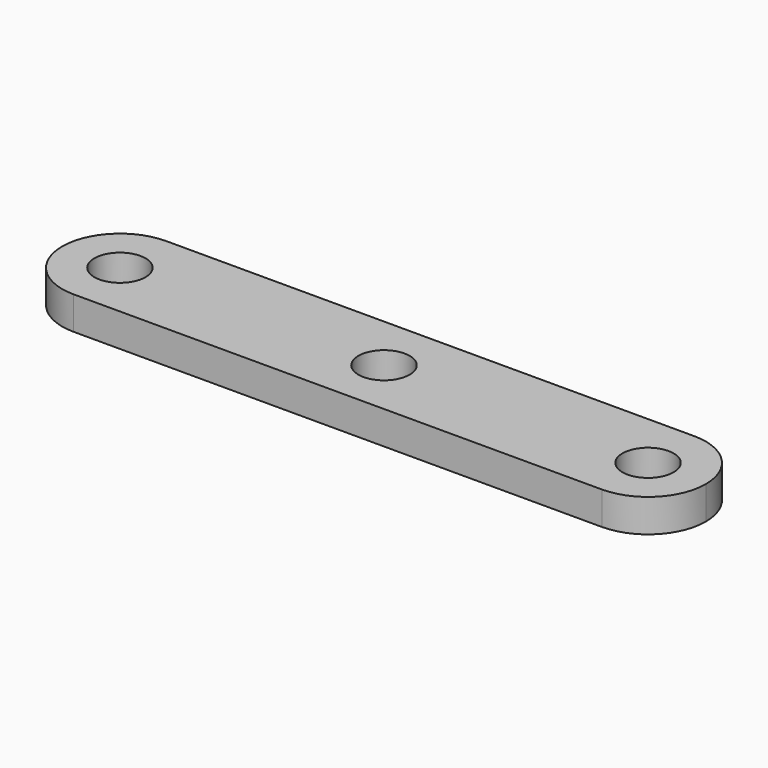
from build123d import *

# Parameters (mm, degrees)
F0_R     = 1.55
F1_DEPTH = 2


with BuildPart() as f1:
    # F0 (on Top) → F1 (new body)
    with BuildSketch(Plane.XY):
        with BuildLine():
            Line((-16, -3.5), (16, -3.5))
            ThreePointArc((16, -3.5), (18.474874, -2.474874), (19.5, 0))
            ThreePointArc((19.5, 0), (18.474874, 2.474874), (16, 3.5))
            Line((16, 3.5), (-16, 3.5))
            ThreePointArc((-16, 3.5), (-18.474874, 2.474874), (-19.5, 0))
            ThreePointArc((-19.5, 0), (-18.474874, -2.474874), (-16, -3.5))
        make_face()
        with Locations((-16, 0)):
            Circle(F0_R, mode=Mode.SUBTRACT)
        Circle(F0_R, mode=Mode.SUBTRACT)
        with Locations((16, 0)):
            Circle(F0_R, mode=Mode.SUBTRACT)
    extrude(amount=F1_DEPTH)


solid = f1.part
